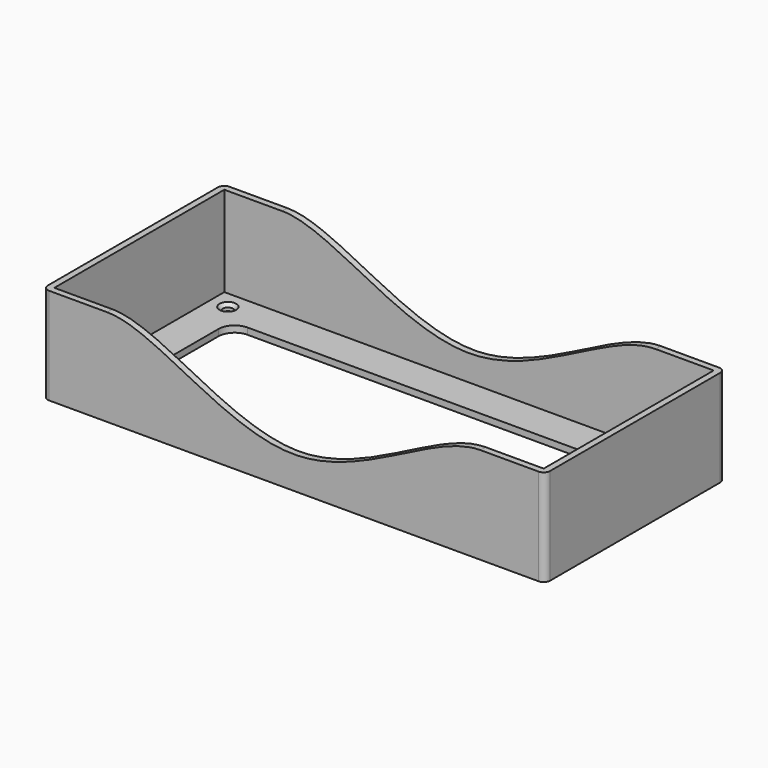
from build123d import *

# Parameters (mm, degrees)
F1_W          = 152
F1_H          = 66
F2_DEPTH      = 30
F1_R          = 1.5875
F3_DEPTH      = 2
F4_SIZE       = 1
F6_DEPTH      = 35
F6_DEPTH_BACK = 35


with BuildPart() as f2:
    # F1 (on Top) → F2 (new body)
    with BuildSketch(Plane.XY):
        with BuildLine():
            ThreePointArc((78, 33), (77.4142135624, 34.4142135624), (76, 35))
            Line((76, 35), (-76, 35))
            ThreePointArc((-76, 35), (-77.4142135624, 34.4142135624), (-78, 33))
            Line((-78, 33), (-78, -33))
            ThreePointArc((-78, -33), (-77.4142135624, -34.4142135624), (-76, -35))
            Line((-76, -35), (76, -35))
            ThreePointArc((76, -35), (77.4142135624, -34.4142135624), (78, -33))
            Line((78, -33), (78, 33))
        make_face()
        Rectangle(F1_W, F1_H, mode=Mode.SUBTRACT)
    extrude(amount=F2_DEPTH)

    # F1 (on Top) → F3 (join)
    with BuildSketch(Plane.XY):
        with BuildLine():
            ThreePointArc((78, 33), (77.4142135624, 34.4142135624), (76, 35))
            Line((76, 35), (-76, 35))
            ThreePointArc((-76, 35), (-77.4142135624, 34.4142135624), (-78, 33))
            Line((-78, 33), (-78, -33))
            ThreePointArc((-78, -33), (-77.4142135624, -34.4142135624), (-76, -35))
            Line((-76, -35), (76, -35))
            ThreePointArc((76, -35), (77.4142135624, -34.4142135624), (78, -33))
            Line((78, -33), (78, 33))
        make_face()
        Rectangle(F1_W, F1_H, mode=Mode.SUBTRACT)
        Rectangle(F1_W, F1_H)
        with Locations((-70.5, -27.5)):
            Circle(F1_R, mode=Mode.SUBTRACT)
        with Locations((70.5, -27.5)):
            Circle(F1_R, mode=Mode.SUBTRACT)
        with Locations((-70.5, 27.5)):
            Circle(F1_R, mode=Mode.SUBTRACT)
        with BuildLine():
            Line((-60, 22), (60, 22))
            ThreePointArc((60, 22), (63.5355339059, 20.5355339059), (65, 17))
            Line((65, 17), (65, -17))
            ThreePointArc((65, -17), (63.5355339059, -20.5355339059), (60, -22))
            Line((60, -22), (-60, -22))
            ThreePointArc((-60, -22), (-63.5355339059, -20.5355339059), (-65, -17))
            Line((-65, -17), (-65, 17))
            ThreePointArc((-65, 17), (-63.5355339059, 20.5355339059), (-60, 22))
        make_face(mode=Mode.SUBTRACT)
        with Locations((70.5, 27.5)):
            Circle(F1_R, mode=Mode.SUBTRACT)
    extrude(amount=F3_DEPTH)

    # F4
    f4_edges = [f2.edges().sort_by_distance(p)[0] for p in [
        (-72.0875, 27.5, 2),
        (68.9125, 27.5, 2),
        (68.9125, -27.5, 2),
        (-72.0875, -27.5, 2),
    ]]
    chamfer(f4_edges, length=F4_SIZE)

    # F5 (on Front) → F6 (cut, two sides)
    with BuildSketch(Plane.XZ) as f6_sk:
        with BuildLine():
            add(Edge.make_bspline(
                [(-58, 30), (-43, 30), (0, -10), (43, 30), (58, 30)],
                knots=[0, 0, 0, 0, 0.5, 1, 1, 1, 1], degree=3))
            Line((58, 30), (-58, 30))
        make_face()
    extrude(amount=-F6_DEPTH, mode=Mode.SUBTRACT)
    extrude(f6_sk.sketch, amount=F6_DEPTH_BACK, mode=Mode.SUBTRACT)


solid = f2.part
